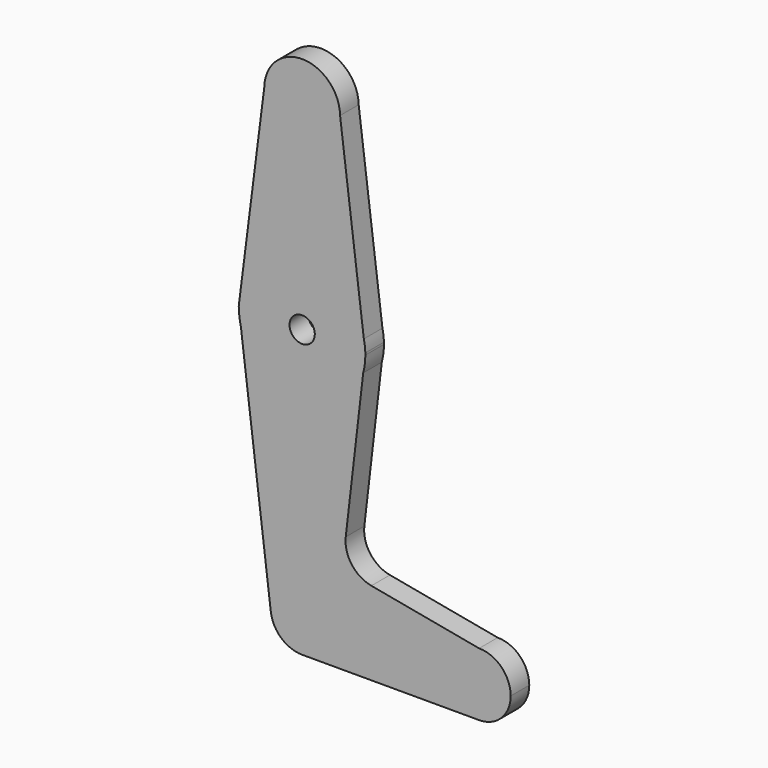
from build123d import *

# Parameters (mm, degrees)
F1_DEPTH = 5.842
F3_D     = 6.35
F4_SIZE  = 0.508


with BuildPart() as f1:
    # F0 (on Front) → F1 (new body)
    with BuildSketch(Plane.XZ):
        with BuildLine():
            ThreePointArc((-9.5238039492, 50.4641557941), (-0.0754731213, 40.7885133075), (9.525, 50.3132142901))
            ThreePointArc((9.525, 50.3132142901), (9.5247764361, 50.3784740944), (9.524105755, 50.4437308352))
            ThreePointArc((9.524105755, 50.4437308352), (0.0102135943, 59.8382088142), (-9.5238039492, 50.4641557941))
        make_face()
        with BuildLine():
            ThreePointArc((9.524105755, 50.4437308352), (9.5247764361, 50.3784740944), (9.525, 50.3132142901))
            ThreePointArc((9.525, 50.3132142901), (-0.0754731213, 40.7885133075), (-9.5238039492, 50.4641557941))
            Line((-9.5238039492, 50.4641557941), (-15.7481848278, 1.515787542))
            ThreePointArc((-15.7481848278, 1.515787542), (-0.7382390734, 15.3710397423), (15.4940214613, 2.9702251313))
            Line((15.4940214613, 2.9702251313), (9.524105755, 50.4437308352))
        make_face()
        with BuildLine():
            Line((15.8675349274, 0), (15.4940214613, 2.9702251313))
            ThreePointArc((15.4940214613, 2.9702251313), (-0.7382390734, 15.3710397423), (-15.7481848278, 1.515787542))
            ThreePointArc((-15.7481848278, 1.515787542), (-15.8446680698, 0.4940908149), (-15.8749364489, -0.5317049948))
            Line((-15.8749364489, -0.5317049948), (-15.404151012, -4.3244616471))
            ThreePointArc((-15.404151012, -4.3244616471), (-0.1436036046, -16.3611361849), (15.332202426, -4.602510891))
            Line((15.332202426, -4.602510891), (15.8675349274, 0))
        make_face()
        with BuildLine():
            ThreePointArc((15.8675349274, 0), (15.7509480386, 1.4939366044), (15.4940214613, 2.9702251313))
            Line((15.4940214613, 2.9702251313), (15.8675349274, 0))
        make_face()
        with BuildLine():
            ThreePointArc((-15.8749364489, -0.5317049948), (-15.8446680698, 0.4940908149), (-15.7481848278, 1.515787542))
            Line((-15.7481848278, 1.515787542), (-15.9409356657, 0))
            Line((-15.9409356657, 0), (-15.8749364489, -0.5317049948))
        make_face()
        with BuildLine():
            ThreePointArc((15.875, -0.4867857099), (15.8731336221, -0.2433642366), (15.8675349274, 0))
            Line((15.8675349274, 0), (15.332202426, -4.602510891))
            ThreePointArc((15.332202426, -4.602510891), (15.7387156165, -2.5624677046), (15.875, -0.4867857099))
        make_face()
        with BuildLine():
            Line((-15.404151012, -4.3244616471), (-15.8749364489, -0.5317049948))
            ThreePointArc((-15.8749364489, -0.5317049948), (-15.7540972084, -2.4423025589), (-15.404151012, -4.3244616471))
        make_face()
        with BuildLine():
            Line((10.9490243725, -42.2867999584), (15.332202426, -4.602510891))
            ThreePointArc((15.332202426, -4.602510891), (-0.1436036046, -16.3611361849), (-15.404151012, -4.3244616471))
            Line((-15.404151012, -4.3244616471), (-7.8770486042, -64.9645441344))
            ThreePointArc((-7.8770486042, -64.9645441344), (-0.4898126958, -56.0644129735), (7.9375, -63.9867857099))
            ThreePointArc((7.9375, -63.9867857099), (5.6126600757, -69.5994457855), (0, -71.9242857099))
            Line((0, -71.9242857099), (44.45, -71.9242857099))
            ThreePointArc((44.45, -71.9242857099), (36.5125, -63.9867857099), (44.45, -56.0492857099))
            Line((44.45, -56.0492857099), (17.3799107009, -51.0071446685))
            ThreePointArc((17.3799107009, -51.0071446685), (12.4451190536, -47.9149192836), (10.9490243725, -42.2867999584))
        make_face()
        with BuildLine():
            ThreePointArc((7.9375, -63.9867857099), (-0.4898126958, -56.0644129735), (-7.8770486042, -64.9645441344))
            ThreePointArc((-7.8770486042, -64.9645441344), (-5.2556136062, -69.9350990735), (0, -71.9242857099))
            ThreePointArc((0, -71.9242857099), (5.6126600757, -69.5994457855), (7.9375, -63.9867857099))
        make_face()
        with BuildLine():
            ThreePointArc((52.3875, -63.9867857099), (50.0626600757, -58.3741256342), (44.45, -56.0492857099))
            ThreePointArc((44.45, -56.0492857099), (36.5125, -63.9867857099), (44.45, -71.9242857099))
            ThreePointArc((44.45, -71.9242857099), (50.0626600757, -69.5994457855), (52.3875, -63.9867857099))
        make_face()
    extrude(amount=F1_DEPTH)

    # F3 (through all)
    with Locations(Plane(origin=(0, 0, 0), x_dir=(-1, 0, 0), z_dir=(0, 1, 0))):
        with Locations((0, 0)):
            Hole(F3_D / 2)

    # F4
    f4_edges = [f1.edges().sort_by_distance(p)[0] for p in [
        (-12.73237, 0, 25.232078),
    ]]
    chamfer(f4_edges, length=F4_SIZE)


solid = f1.part
